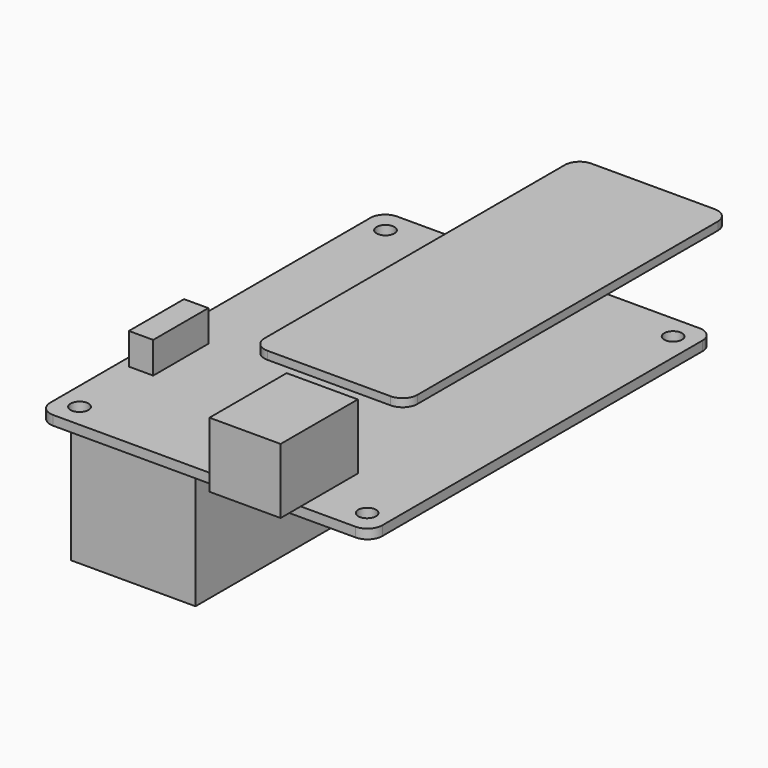
from build123d import *

# Parameters (mm, degrees)
F0_R      = 1.5
F1_DEPTH  = 1.6
F3_W      = 25.8
F3_H      = 68.33
F4_DEPTH  = 1.36
F5_R      = 2.5
F6_W      = 12
F6_H      = 16.27
F7_DEPTH  = 11
F8_W      = 4.1
F8_H      = 11.62
F9_DEPTH  = 5.3
F10_W     = 21
F10_H     = 69.5
F11_DEPTH = 20


with BuildPart() as f1:
    # F0 (on Top) → F1 (new body)
    with BuildSketch(Plane.XY):
        with BuildLine():
            ThreePointArc((28, 33.75), (27.267767, 35.517767), (25.5, 36.25))
            Line((25.5, 36.25), (-25.5, 36.25))
            ThreePointArc((-25.5, 36.25), (-27.267767, 35.517767), (-28, 33.75))
            Line((-28, 33.75), (-28, -33.75))
            ThreePointArc((-28, -33.75), (-27.267767, -35.517767), (-25.5, -36.25))
            Line((-25.5, -36.25), (25.5, -36.25))
            ThreePointArc((25.5, -36.25), (27.267767, -35.517767), (28, -33.75))
            Line((28, -33.75), (28, 33.75))
        make_face()
        with Locations((-24.25, -32.25)):
            Circle(F0_R, mode=Mode.SUBTRACT)
        with Locations((24.25, -32.25)):
            Circle(F0_R, mode=Mode.SUBTRACT)
        with Locations((-24.25, 32.25)):
            Circle(F0_R, mode=Mode.SUBTRACT)
        with Locations((24.25, 32.25)):
            Circle(F0_R, mode=Mode.SUBTRACT)
    extrude(amount=F1_DEPTH)

    # F6 (on face) → F7 (join)
    with BuildSketch(Plane.XY.offset(1.6)):
        with Locations((10.25, -32.355)):
            Rectangle(F6_W, F6_H)
    extrude(amount=F7_DEPTH)

    # F8 (on face) → F9 (join)
    with BuildSketch(Plane.XY.offset(1.6)):
        with Locations((-24.28, -13.44)):
            Rectangle(F8_W, F8_H)
    extrude(amount=F9_DEPTH)

    # F10 (on face) → F11 (join)
    with BuildSketch(Plane(origin=(0, 0, 0), x_dir=(1, 0, 0), z_dir=(0, 0, -1))):
        with Locations((-13.2, 0)):
            Rectangle(F10_W, F10_H)
    extrude(amount=F11_DEPTH)


with BuildPart() as f4:
    # F3 (on offset) → F4 (new body)
    with BuildSketch(Plane.XY.offset(12.6)):
        with Locations((10.3, 11.315)):
            Rectangle(F3_W, F3_H)
    extrude(amount=F4_DEPTH)

    # F5
    f5_edges = [f4.edges().sort_by_distance(p)[0] for p in [
        (23.2, -22.85, 13.28),
        (-2.6, -22.85, 13.28),
        (23.2, 45.48, 13.28),
        (-2.6, 45.48, 13.28),
    ]]
    fillet(f5_edges, radius=F5_R)


solid = Compound([f1.part, f4.part])
